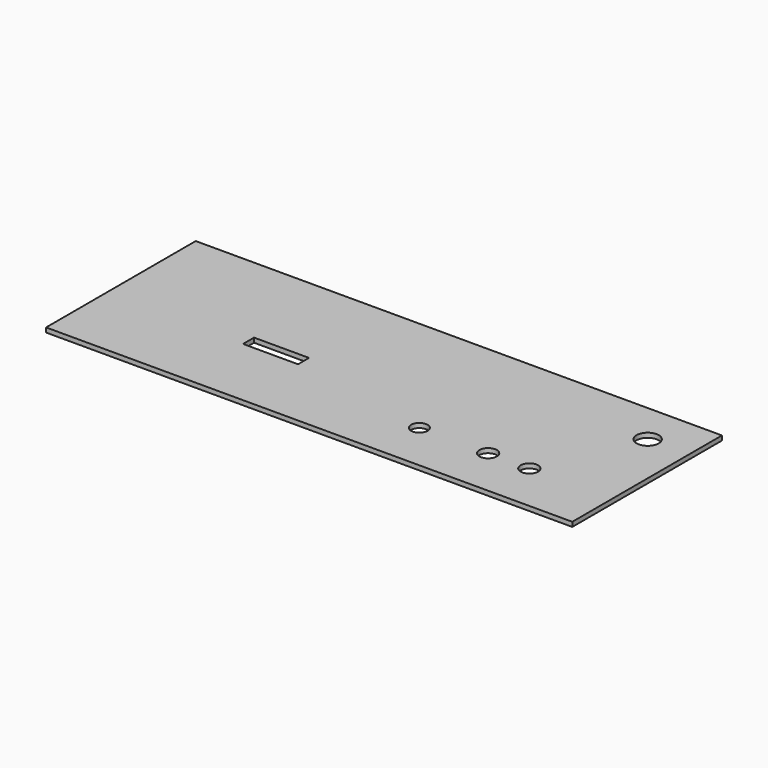
from build123d import *

# Parameters (mm, degrees)
SKETCH_W      = 191.3
SKETCH_H      = 68
PAD_DEPTH     = 1.65
SKETCH001_R   = 4.05
SKETCH001_R_2 = 3
SKETCH001_R_3 = 3.175
SKETCH001_W   = 20
SKETCH001_H   = 5
POCKET_DEPTH  = 5


with BuildPart() as part:
    # Sketch → Pad (new body)
    with BuildSketch(Plane.XY):
        with Locations((95.65, 34)):
            Rectangle(SKETCH_W, SKETCH_H)
    extrude(amount=PAD_DEPTH)

    # Sketch001 (on Face6 of Pad) → Pocket (cut)
    with BuildSketch(Plane.XY.offset(1.65)):
        with Locations((176.3, 53)):
            Circle(SKETCH001_R)
        with Locations((121.3, 18)):
            Circle(SKETCH001_R_2)
        with Locations((146.3, 18)):
            Circle(SKETCH001_R_3)
        with Locations((161.3, 18)):
            Circle(SKETCH001_R_3)
        with Locations((60, 29.5)):
            Rectangle(SKETCH001_W, SKETCH001_H)
    extrude(amount=-POCKET_DEPTH, mode=Mode.SUBTRACT)


solid = part.part
